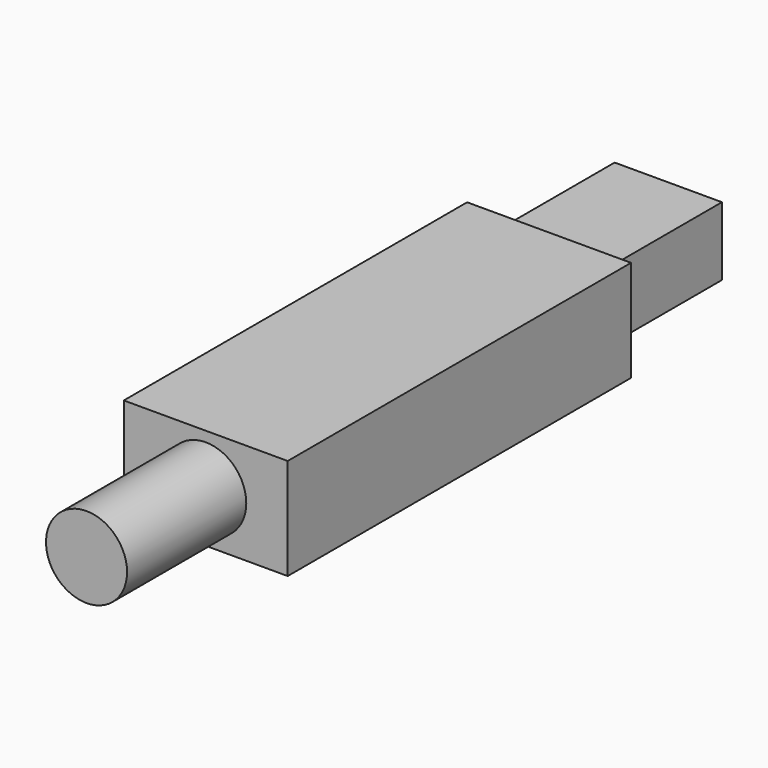
from build123d import *

# Parameters (mm, degrees)
F0_W     = 27.5
F0_H     = 72
F1_DEPTH = 17
F2_W     = 18
F2_H     = 11.5
F3_DEPTH = 25
F4_R     = 6.8
F5_DEPTH = 25


with BuildPart() as f1:
    # F0 (on Top) → F1 (new body)
    with BuildSketch(Plane.XY):
        Rectangle(F0_W, F0_H)
    extrude(amount=F1_DEPTH)

    # F2 (on face) → F3 (join)
    with BuildSketch(Plane(origin=(0, 36, 0), x_dir=(-1, 0, 0), z_dir=(0, 1, 0))):
        with Locations((0, 8.5)):
            Rectangle(F2_W, F2_H)
    extrude(amount=F3_DEPTH)

    # F4 (on face) → F5 (join)
    with BuildSketch(Plane.XZ.offset(36)):
        with Locations((0, 8.5)):
            Circle(F4_R)
    extrude(amount=F5_DEPTH)


solid = f1.part
